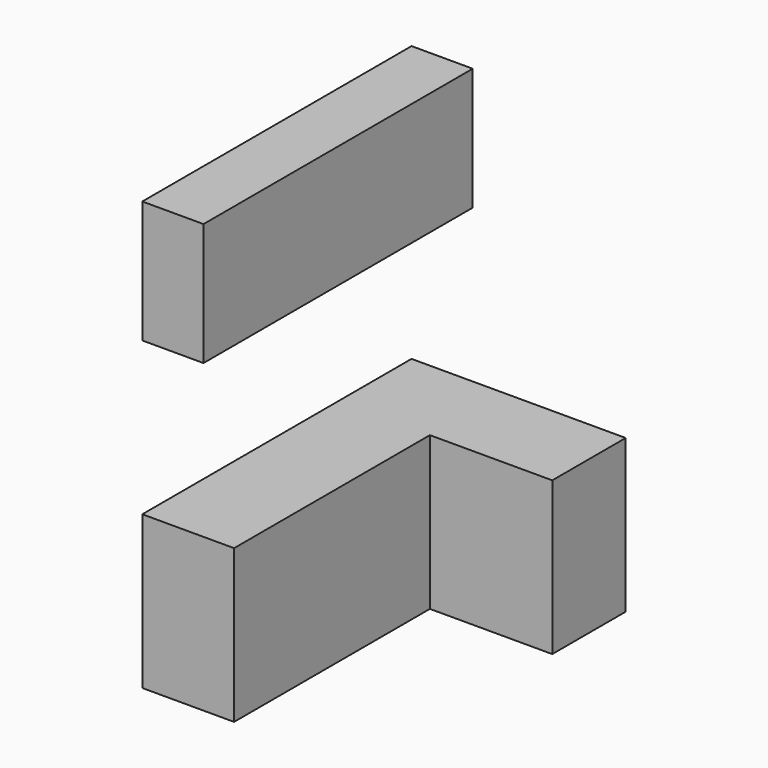
from build123d import *

# Parameters (mm, degrees)
F1_DEPTH = 1000
F3_W     = 400
F3_H     = 2200
F4_DEPTH = 800


with BuildPart() as f1:
    # F0 (on Top) → F1 (new body)
    with BuildSketch(Plane.XY):
        Polygon((0, 2200), (0, 0), (600, 0), (600, 1600), (1400, 1600), (1400, 2200), align=None)
    extrude(amount=F1_DEPTH)


with BuildPart() as f4:
    # F3 (on offset) → F4 (new body)
    with BuildSketch(Plane.XY.offset(2000)):
        with Locations((200, 1100)):
            Rectangle(F3_W, F3_H)
    extrude(amount=F4_DEPTH)


solid = Compound([f1.part, f4.part])
